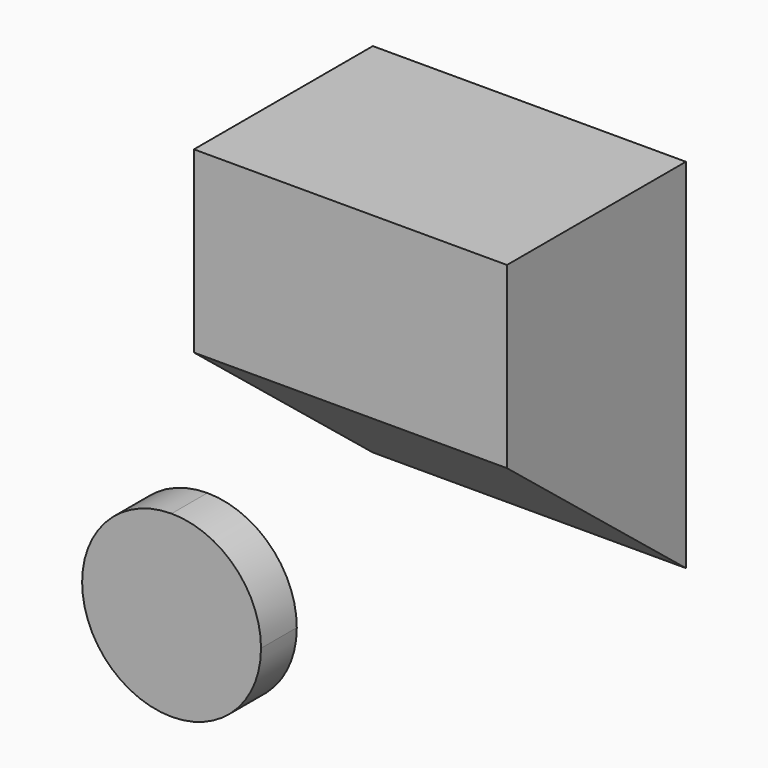
from build123d import *

# Parameters (mm, degrees)
F1_DEPTH = 35
F4_DEPTH = 10


with BuildPart() as f1:
    # F0 (on Right) → F1 (new body, symmetric)
    with BuildSketch(Plane.YZ):
        Polygon((0, 40), (0, 0), (50, -40), (50, 40), align=None)
    extrude(amount=F1_DEPTH, both=True)


with BuildPart() as f4:
    # F3 (on offset) → F4 (new body)
    with BuildSketch(Plane.XZ.offset(50)):
        with BuildLine():
            ThreePointArc((0, -40), (14.142136, -34.142136), (20, -20))
            ThreePointArc((20, -20), (14.142136, -5.857864), (0, 0))
            ThreePointArc((0, 0), (-20, -20), (0, -40))
        make_face()
    extrude(amount=-F4_DEPTH)


solid = Compound([f1.part, f4.part])
